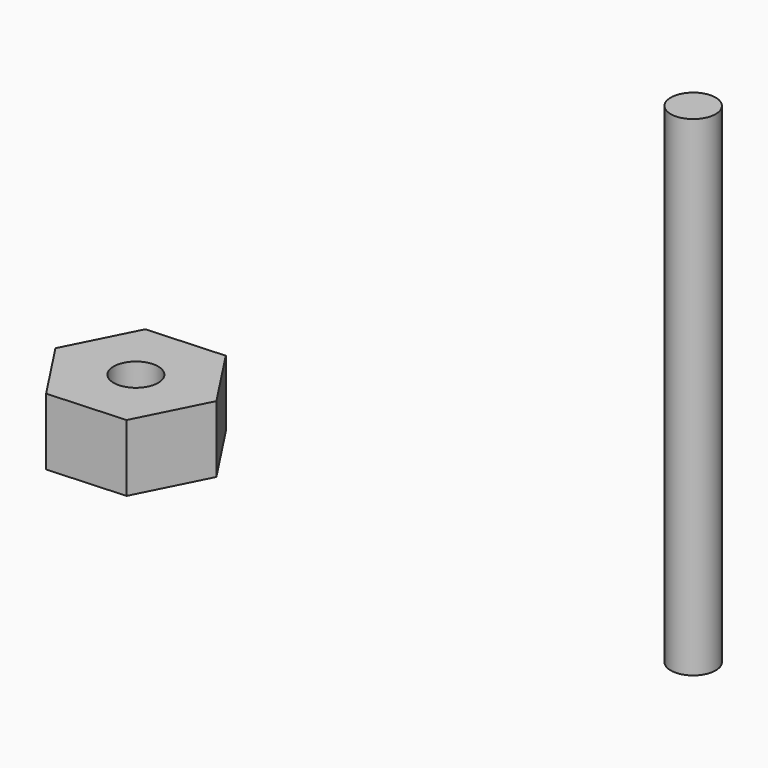
from build123d import *

# Parameters (mm, degrees)
F0_R     = 1.5875
F1_DEPTH = 4.7625
F2_R     = 1.601024
F3_DEPTH = 34.925


with BuildPart() as f1:
    # F0 (on Top) → F1 (new body)
    with BuildSketch(Plane.XY):
        Polygon((-32.995806, 5.928171), (-30.517198, 10.83718), (-33.529221, 15.438223), (-39.019852, 15.130256), (-41.49846, 10.221247), (-38.486437, 5.620204), align=None)
        with Locations((-36.007829, 10.529214)):
            Circle(F0_R, mode=Mode.SUBTRACT)
    extrude(amount=F1_DEPTH)


with BuildPart() as f3:
    # F2 (on Top) → F3 (new body)
    with BuildSketch(Plane.XY):
        with Locations((4.165734, 9.982973)):
            Circle(F2_R)
    extrude(amount=F3_DEPTH)


solid = Compound([f1.part, f3.part])
